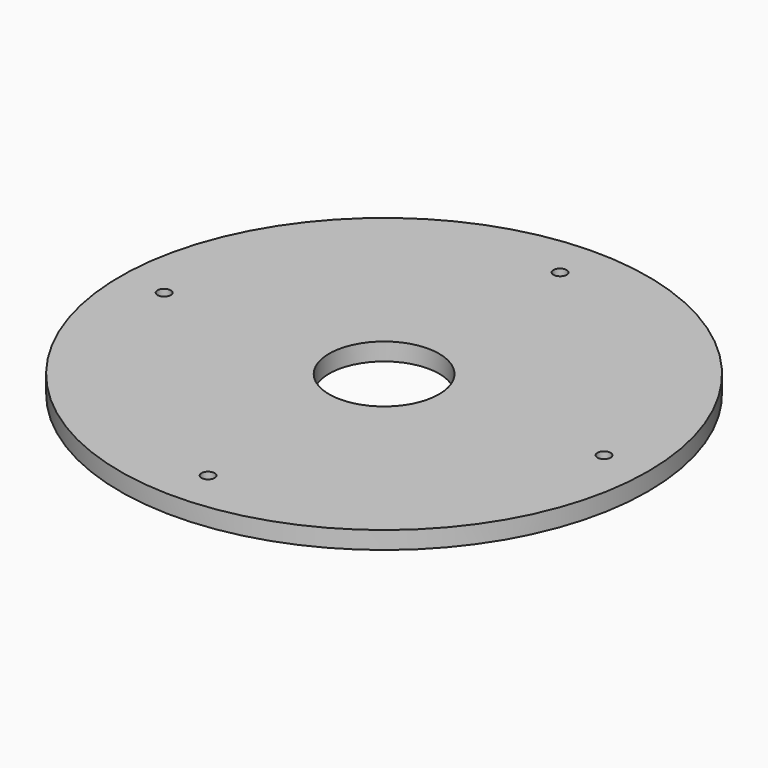
from build123d import *

# Parameters (mm, degrees)
SKETCH_R   = 60
SKETCH_R_2 = 12.5
SKETCH_R_3 = 1.5
PAD_DEPTH  = 4


with BuildPart() as part:
    # Sketch → Pad (new body)
    with BuildSketch(Plane.XY):
        Circle(SKETCH_R)
        Circle(SKETCH_R_2, mode=Mode.SUBTRACT)
        with Locations((0, 50)):
            Circle(SKETCH_R_3, mode=Mode.SUBTRACT)
        with Locations((0, -50)):
            Circle(SKETCH_R_3, mode=Mode.SUBTRACT)
        with Locations((50, 0)):
            Circle(SKETCH_R_3, mode=Mode.SUBTRACT)
        with Locations((-50, 0)):
            Circle(SKETCH_R_3, mode=Mode.SUBTRACT)
    extrude(amount=PAD_DEPTH)


solid = part.part
